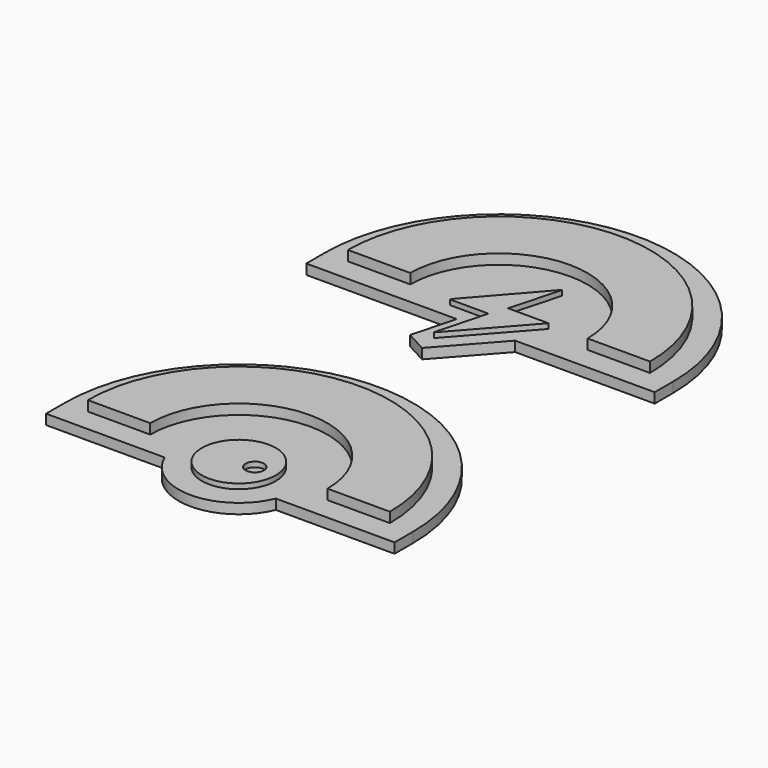
from build123d import *

# Parameters (mm, degrees)
F3_DEPTH  = 2
F4_DEPTH  = 4
F5_DEPTH  = 3
F2_R      = 7.350556
F2_R_2    = 1.818894
F6_DEPTH  = 2
F7_DEPTH  = 4
F8_DEPTH  = 3
F9_W      = 5
F9_H      = 5
F10_DEPTH = 2.5


with BuildPart() as f3:
    # F1 (on Top) → F3 (new body)
    with BuildSketch(Plane.XY):
        with BuildLine():
            Line((-34.598458, 20.970316), (-34.598458, 16.37698))
            Line((-34.598458, 16.37698), (-4.722546, 16.37698))
            Line((-4.722546, 16.37698), (-7.030898, 7.69272))
            Line((-7.030898, 7.69272), (-2.858186, 5.448122))
            Line((-2.858186, 5.448122), (6.8723, 16.37698))
            Line((6.8723, 16.37698), (34.601226, 16.37698))
            Line((34.601226, 16.37698), (34.601226, 20.971586))
            ThreePointArc((34.601226, 20.971586), (0.000749, 55.560544), (-34.598458, 20.970316))
        make_face()
        Polygon((-8.41977, 19.378498), (-8.46803, 19.514896), (3.084144, 32.731786), (3.152978, 32.708164), (0.42705, 22.680498), (8.467928, 22.680498), (-3.47693, 9.189288), (-3.522396, 9.211386), (-0.82009, 19.378498), align=None, mode=Mode.SUBTRACT)
        with BuildLine():
            Line((-17.616881, 20.971586), (-29.99994, 20.971586))
            ThreePointArc((-29.99994, 20.971586), (3.8e-05, 50.959082), (30.000016, 20.971586))
            Line((30.000016, 20.971586), (17.59491, 20.971586))
            ThreePointArc((17.59491, 20.971586), (-0.010985, 38.553974), (-17.616881, 20.971586))
        make_face(mode=Mode.SUBTRACT)
        with BuildLine():
            ThreePointArc((30.000016, 20.971586), (3.8e-05, 50.959082), (-29.99994, 20.971586))
            Line((-29.99994, 20.971586), (-17.616881, 20.971586))
            ThreePointArc((-17.616881, 20.971586), (-0.010985, 38.553974), (17.59491, 20.971586))
            Line((17.59491, 20.971586), (30.000016, 20.971586))
        make_face()
    extrude(amount=F3_DEPTH)

    # F1 (on Top) → F4 (join)
    with BuildSketch(Plane.XY):
        with BuildLine():
            ThreePointArc((30.000016, 20.971586), (3.8e-05, 50.959082), (-29.99994, 20.971586))
            Line((-29.99994, 20.971586), (-17.616881, 20.971586))
            ThreePointArc((-17.616881, 20.971586), (-0.010985, 38.553974), (17.59491, 20.971586))
            Line((17.59491, 20.971586), (30.000016, 20.971586))
        make_face()
    extrude(amount=F4_DEPTH)

    # F1 (on Top) → F5 (join)
    with BuildSketch(Plane.XY):
        Polygon((3.084144, 32.731786), (-8.46803, 19.514896), (-8.41977, 19.378498), (-0.82009, 19.378498), (-3.522396, 9.211386), (-3.47693, 9.189288), (8.467928, 22.680498), (0.42705, 22.680498), (3.152978, 32.708164), align=None)
    extrude(amount=F5_DEPTH)


with BuildPart() as f6:
    # F2 (on Top) → F6 (new body)
    with BuildSketch(Plane.XY):
        with BuildLine():
            ThreePointArc((30.000016, -43.611546), (3.8e-05, -13.60899), (-29.99994, -43.611546))
            Line((-29.99994, -43.611546), (-17.604461, -43.611546))
            ThreePointArc((-17.604461, -43.611546), (5.1e-05, -26.008507), (17.604562, -43.611546))
            Line((17.604562, -43.611546), (30.000016, -43.611546))
        make_face()
        with BuildLine():
            Line((-34.601201, -48.211435), (-11.028477, -48.211435))
            ThreePointArc((-11.028477, -48.211435), (-0.000114, -55.560519), (11.028248, -48.211435))
            Line((11.028248, -48.211435), (34.598432, -48.211435))
            Line((34.598432, -48.211435), (34.598432, -43.611546))
            ThreePointArc((34.598432, -43.611546), (-0.001384, -9.01032), (-34.601201, -43.611546))
            Line((-34.601201, -43.611546), (-34.601201, -48.211435))
        make_face()
        with Locations((5.1e-05, -43.613019)):
            Circle(F2_R, mode=Mode.SUBTRACT)
        with BuildLine():
            Line((-17.604461, -43.611546), (-29.99994, -43.611546))
            ThreePointArc((-29.99994, -43.611546), (3.8e-05, -13.60899), (30.000016, -43.611546))
            Line((30.000016, -43.611546), (17.604562, -43.611546))
            ThreePointArc((17.604562, -43.611546), (5.1e-05, -26.008507), (-17.604461, -43.611546))
        make_face(mode=Mode.SUBTRACT)
        with Locations((5.1e-05, -43.613019)):
            Circle(F2_R)
        with Locations((3.063316, -43.47388)):
            Circle(F2_R_2, mode=Mode.SUBTRACT)
        with Locations((3.063316, -43.47388)):
            Circle(F2_R_2)
    extrude(amount=F6_DEPTH)

    # F2 (on Top) → F7 (join)
    with BuildSketch(Plane.XY):
        with BuildLine():
            ThreePointArc((30.000016, -43.611546), (3.8e-05, -13.60899), (-29.99994, -43.611546))
            Line((-29.99994, -43.611546), (-17.604461, -43.611546))
            ThreePointArc((-17.604461, -43.611546), (5.1e-05, -26.008507), (17.604562, -43.611546))
            Line((17.604562, -43.611546), (30.000016, -43.611546))
        make_face()
    extrude(amount=F7_DEPTH)

    # F2 (on Top) → F8 (join)
    with BuildSketch(Plane.XY):
        with Locations((5.1e-05, -43.613019)):
            Circle(F2_R)
        with Locations((3.063316, -43.47388)):
            Circle(F2_R_2, mode=Mode.SUBTRACT)
    extrude(amount=F8_DEPTH)


with BuildPart() as f10_tool:
    # F9 (on Top) → F10 (new body)
    with BuildSketch(Plane.XY):
        with Locations((-23.49994, -38.111546)):
            Rectangle(F9_W, F9_H)
        with Locations((23.49994, -38.111546)):
            Rectangle(F9_W, F9_H)
        with Locations((-23.49994, 26.471584)):
            Rectangle(F9_W, F9_H)
        with Locations((23.49994, 26.471584)):
            Rectangle(F9_W, F9_H)
    extrude(amount=F10_DEPTH)


with BuildPart() as f3_1:
    add(f3.part)

    # F10: cut by f10_tool
    add(f10_tool.part, mode=Mode.SUBTRACT)


with BuildPart() as f6_1:
    add(f6.part)

    # F10: cut by f10_tool
    add(f10_tool.part, mode=Mode.SUBTRACT)


solid = Compound([f3_1.part, f6_1.part])
